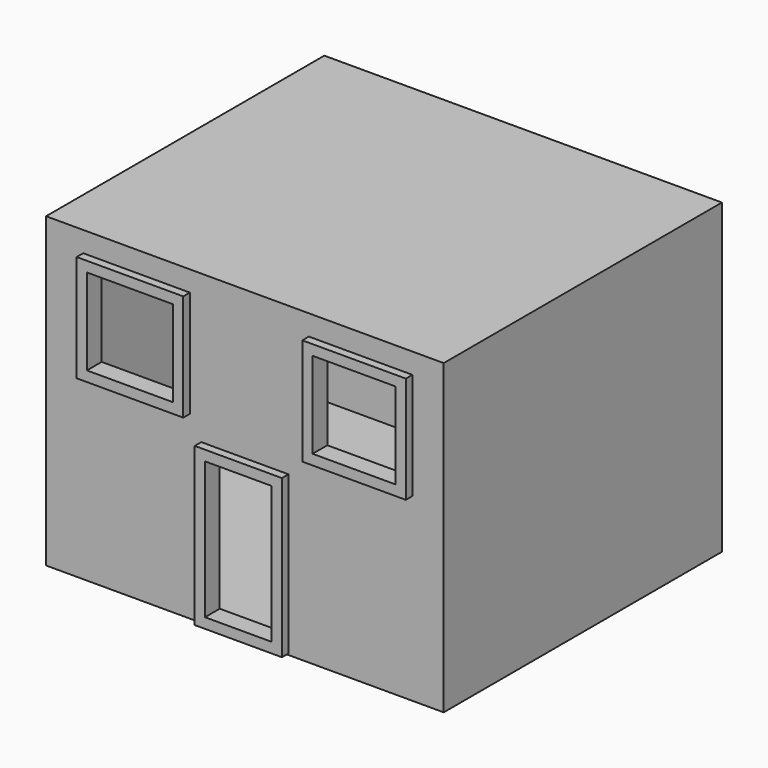
from build123d import *

# Parameters (mm, degrees)
F0_W     = 96.9840660691
F0_H     = 84.8280265927
F1_DEPTH = 75
F2_W     = 21.263839677
F2_H     = 38.4748987854
F3_DEPTH = 2
F4_W     = 25.9946249425
F4_H     = 26.0400751024
F4_W_2   = 25.2393023088
F5_DEPTH = 2
F6_W     = 23.7395130098
F6_H     = 47.4790297449
F7_DEPTH = 2
F8_T     = -2.5


with BuildPart() as f1:
    # F0 (on Top) → F1 (new body)
    with BuildSketch(Plane.XY):
        Rectangle(F0_W, F0_H)
    extrude(amount=F1_DEPTH)

    # F2 (on face) → F3 (join)
    with BuildSketch(Plane.XZ.offset(42.4140132964)):
        with Locations((0, 19.5709709078)):
            Rectangle(F2_W, F2_H)
    extrude(amount=F3_DEPTH)

    # F4 (on face) → F5 (join)
    with BuildSketch(Plane.XZ.offset(42.4140132964)):
        with Locations((-26.4344327152, 56.980330497)):
            Rectangle(F4_W, F4_H)
        with Locations((28.2331126402, 56.980330497)):
            Rectangle(F4_W_2, F4_H)
    extrude(amount=F5_DEPTH)

    # F6 (on face) → F7 (join)
    with BuildSketch(Plane(origin=(0, 42.4140132964, 0), x_dir=(-1, 0, 0), z_dir=(0, 1, 0))):
        with Locations((0, 23.7531457096)):
            Rectangle(F6_W, F6_H)
    extrude(amount=F7_DEPTH)

    # F8
    f8_openings = [f1.faces().sort_by_distance(p)[0] for p in [
        (0, 44.414013, 23.753146),
        (-26.434433, -44.414013, 56.98033),
        (28.233113, -44.414013, 56.98033),
        (0, -44.414013, 19.570971),
    ]]
    offset(amount=F8_T, openings=f8_openings, kind=Kind.INTERSECTION)


solid = f1.part
